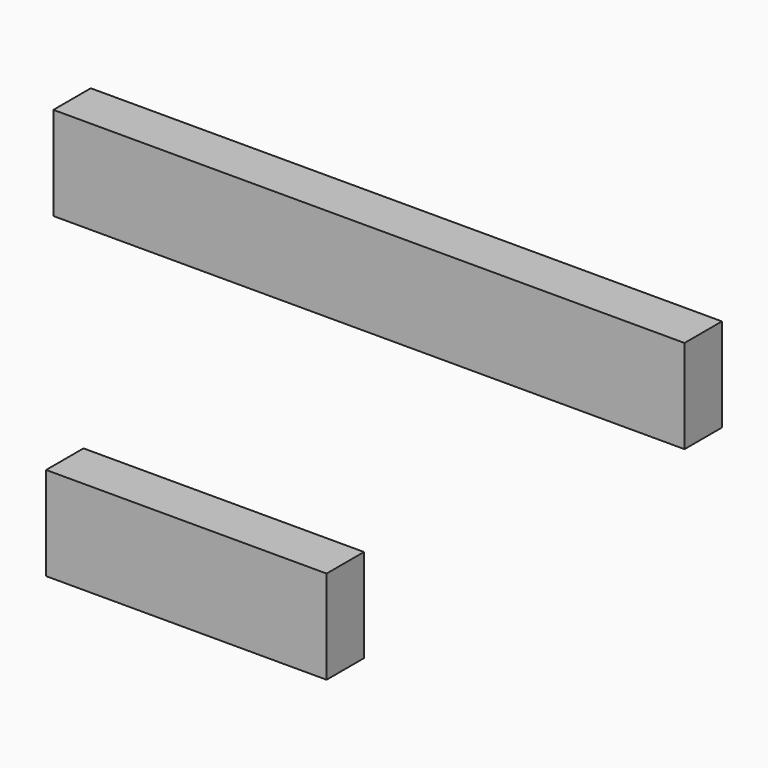
from build123d import *

# Parameters (mm, degrees)
F0_W     = 68.58
F0_H     = 10.16
F0_W_2   = 30.48
F1_DEPTH = 5.08


with BuildPart() as f1:
    # F0 (on Front) → F1 (new body)
    with BuildSketch(Plane.XZ):
        with Locations((-23.598031, 36.342185)):
            Rectangle(F0_W, F0_H)
        with Locations((-43.442829, 1.635861)):
            Rectangle(F0_W_2, F0_H)
    extrude(amount=F1_DEPTH)


solid = f1.part
